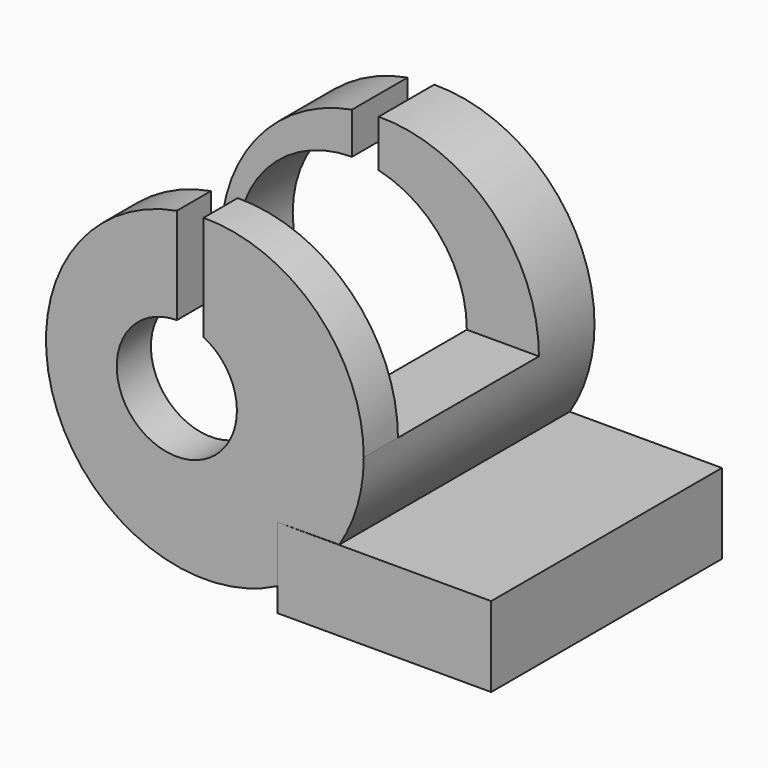
from build123d import *

# Parameters (mm, degrees)
F1_DEPTH         = 24.5
F1_DEPTH_BACK    = 29.5
F2_START         = 16.5
F2_DEPTH         = 8
F3_W             = 66
F3_H             = 33
F4_DEPTH         = 40
F5_DEPTH         = 29.501
F5_DEPTH_BACK    = 25
F6_DEPTH         = 24.5
F6_DEPTH_BACK    = 29.5
F8_D             = 5
F8_DEPTH         = 20
F8_CBORE_D       = 11.25
F8_CBORE_DEPTH   = 6
F8_TIP           = 1.5021515476
F8_2_D           = 5
F8_2_DEPTH       = 20
F8_2_CBORE_D     = 11.25
F8_2_CBORE_DEPTH = 6
F8_2_TIP         = 1.5021515476
F9_W             = 33
F9_H             = 63.3698031306
F10_DEPTH        = 28.1


with BuildPart() as f1:
    # F0 (on Front) → F1 (new body, two sides)
    with BuildSketch(Plane.XZ) as f1_sk:
        with BuildLine():
            ThreePointArc((0, 21.5), (2.5173141614, 21.3521223632), (5, 20.9105236663))
            Line((5, 20.9105236663), (5, 29.7489495613))
            ThreePointArc((5, 29.7489495613), (2.4901533128, 29.6217107248), (0, 29.2831009287))
            Line((0, 29.2831009287), (0, 21.5))
        make_face()
        with BuildLine():
            Line((5, 29.7489495613), (5, 20.9105236663))
            ThreePointArc((5, 20.9105236663), (16.8782404296, 13.3182206019), (21.5, 0))
            ThreePointArc((21.5, 0), (-15.2027957955, -15.2027957955), (0, 21.5))
            Line((0, 21.5), (0, 29.2831009287))
            ThreePointArc((0, 29.2831009287), (-22.9313190623, -9.53287763), (18.8551100849, -26.4568229305))
            Line((18.8551100849, -26.4568229305), (18.8551100849, -15.9174033455))
            Line((18.8551100849, -15.9174033455), (30.4156787886, -15.8666666667))
            ThreePointArc((30.4156787886, -15.8666666667), (33.8309503337, -8.2578313146), (35, 0))
            ThreePointArc((35, 0), (26.1978519185, 21.1246301743), (5, 29.7489495613))
        make_face()
        with BuildLine():
            Line((5, 29.7489495613), (5, 20.9105236663))
            ThreePointArc((5, 20.9105236663), (16.8782404296, 13.3182206019), (21.5, 0))
            ThreePointArc((21.5, 0), (-15.2027957955, -15.2027957955), (0, 21.5))
            Line((0, 21.5), (0, 29.2831009287))
            ThreePointArc((0, 29.2831009287), (-22.9313190623, -9.53287763), (18.8551100849, -26.4568229305))
            Line((18.8551100849, -26.4568229305), (18.8551100849, -15.9174033455))
            Line((18.8551100849, -15.9174033455), (30.4156787886, -15.8666666667))
            ThreePointArc((30.4156787886, -15.8666666667), (33.8309503337, -8.2578313146), (35, 0))
            ThreePointArc((35, 0), (26.1978519185, 21.1246301743), (5, 29.7489495613))
        make_face()
        with BuildLine():
            Line((5, 29.7489495613), (5, 20.9105236663))
            ThreePointArc((5, 20.9105236663), (16.8782404296, 13.3182206019), (21.5, 0))
            ThreePointArc((21.5, 0), (-15.2027957955, -15.2027957955), (0, 21.5))
            Line((0, 21.5), (0, 29.2831009287))
            ThreePointArc((0, 29.2831009287), (-22.9313190623, -9.53287763), (18.8551100849, -26.4568229305))
            Line((18.8551100849, -26.4568229305), (18.8551100849, -15.9174033455))
            Line((18.8551100849, -15.9174033455), (30.4156787886, -15.8666666667))
            ThreePointArc((30.4156787886, -15.8666666667), (33.8309503337, -8.2578313146), (35, 0))
            ThreePointArc((35, 0), (26.1978519185, 21.1246301743), (5, 29.7489495613))
        make_face()
    extrude(amount=F1_DEPTH)
    extrude(f1_sk.sketch, amount=-F1_DEPTH_BACK)

    # F0 (on Front) → F2 (join)
    with BuildSketch(Plane.XZ.offset(F2_START)):
        with BuildLine():
            ThreePointArc((0, 11.25), (2.5677811837, 10.9530360993), (5, 10.0778221854))
            Line((5, 10.0778221854), (5, 20.9105236663))
            ThreePointArc((5, 20.9105236663), (2.5173141614, 21.3521223632), (0, 21.5))
            Line((0, 21.5), (0, 11.25))
        make_face()
        with BuildLine():
            ThreePointArc((5, 10.0778221854), (9.560661588, 5.9292706128), (11.25, 0))
            ThreePointArc((11.25, 0), (-7.9549512883, -7.9549512883), (0, 11.25))
            Line((0, 11.25), (0, 21.5))
            ThreePointArc((0, 21.5), (-15.2027957955, -15.2027957955), (21.5, 0))
            ThreePointArc((21.5, 0), (16.8782404296, 13.3182206019), (5, 20.9105236663))
            Line((5, 20.9105236663), (5, 10.0778221854))
        make_face()
    extrude(amount=F2_DEPTH)

    # F3 (on Top) → F4 (cut)
    with BuildSketch(Plane.XY):
        with Locations((2.857523039, 0)):
            Rectangle(F3_W, F3_H)
    extrude(amount=F4_DEPTH, mode=Mode.SUBTRACT)

    # F0 (on Front) → F5 (cut, two sides)
    with BuildSketch(Plane.XZ) as f5_sk:
        with BuildLine():
            ThreePointArc((0, 11.25), (2.5677811837, 10.9530360993), (5, 10.0778221854))
            Line((5, 10.0778221854), (5, 20.9105236663))
            ThreePointArc((5, 20.9105236663), (2.5173141614, 21.3521223632), (0, 21.5))
            Line((0, 21.5), (0, 11.25))
        make_face()
        with BuildLine():
            ThreePointArc((0, 21.5), (2.5173141614, 21.3521223632), (5, 20.9105236663))
            Line((5, 20.9105236663), (5, 29.7489495613))
            ThreePointArc((5, 29.7489495613), (2.4901533128, 29.6217107248), (0, 29.2831009287))
            Line((0, 29.2831009287), (0, 21.5))
        make_face()
    extrude(amount=-F5_DEPTH, mode=Mode.SUBTRACT)
    extrude(f5_sk.sketch, amount=F5_DEPTH_BACK, mode=Mode.SUBTRACT)

    # F8
    with Locations(Plane(origin=(0, 0, -30.9174033455), x_dir=(1, 0, 0), z_dir=(0, 0, -1))):
        with Locations((24.8551100849, 18.5), (24.8551100849, -23.5)):
            CounterBoreHole(F8_D / 2, F8_CBORE_D / 2, F8_CBORE_DEPTH, depth=F8_DEPTH)
            with Locations((0, 0, -(F8_DEPTH + F8_TIP / 2))):  # 118° drill point
                Cone(0, F8_D / 2, F8_TIP, mode=Mode.SUBTRACT)

    # F9 (on Right) → F10 (cut)
    with BuildSketch(Plane.YZ):
        Rectangle(F9_W, F9_H)
    extrude(amount=-F10_DEPTH, mode=Mode.SUBTRACT)


with BuildPart() as f6:
    # F0 (on Front) → F6 (new body, two sides)
    with BuildSketch(Plane.XZ) as f6_sk:
        with BuildLine():
            ThreePointArc((30.3836183376, -15.9174033455), (25.323418026, -21.9572400077), (18.8551100849, -26.4568229305))
            Line((18.8551100849, -26.4568229305), (18.8551100849, -30.9174033455))
            Line((18.8551100849, -30.9174033455), (58.8551100849, -30.9174033455))
            Line((58.8551100849, -30.9174033455), (58.8551100849, -15.9174033455))
            Line((58.8551100849, -15.9174033455), (30.3836183376, -15.9174033455))
        make_face()
        with BuildLine():
            Line((18.8551100849, -15.9174033455), (18.8551100849, -26.4568229305))
            ThreePointArc((18.8551100849, -26.4568229305), (25.323418026, -21.9572400077), (30.3836183376, -15.9174033455))
            Line((30.3836183376, -15.9174033455), (18.8551100849, -15.9174033455))
        make_face()
    extrude(amount=F6_DEPTH)
    extrude(f6_sk.sketch, amount=-F6_DEPTH_BACK)

    # F8#2
    with Locations(Plane(origin=(0, 0, -30.9174033455), x_dir=(1, 0, 0), z_dir=(0, 0, -1))):
        with Locations((24.8551100849, 18.5), (24.8551100849, -23.5)):
            CounterBoreHole(F8_2_D / 2, F8_2_CBORE_D / 2, F8_2_CBORE_DEPTH, depth=F8_2_DEPTH)
            with Locations((0, 0, -(F8_2_DEPTH + F8_2_TIP / 2))):  # 118° drill point
                Cone(0, F8_2_D / 2, F8_2_TIP, mode=Mode.SUBTRACT)


solid = Compound([f1.part, f6.part])
